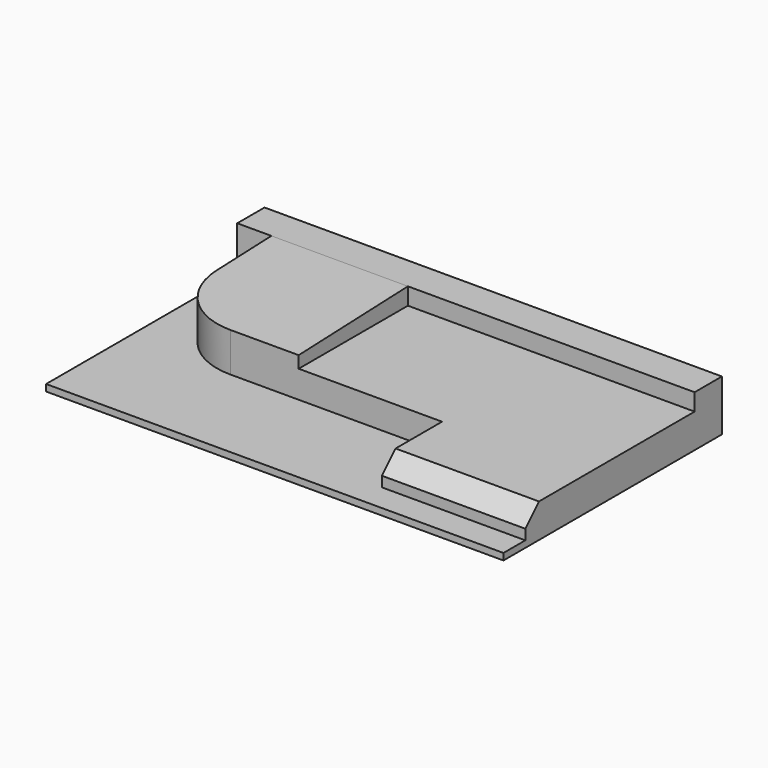
from build123d import *

# Parameters (mm, degrees)
F1_DEPTH = 21
F3_DEPTH = 42
F5_DEPTH = 50
F7_DEPTH = 50
F8_W     = 40
F8_H     = 8
F9_DEPTH = 40
F10_R    = 20
F11_SIZE = 5


with BuildPart() as f1:
    # F0 (on Right) → F1 (new body, symmetric)
    with BuildSketch(Plane.YZ):
        Polygon((40, 0), (0, 0), (-32, 0), (-40, 0), (-40, -1.9478090107), (40, -1.9478090107), align=None)
        Polygon((-32, 0), (0, 0), (40, 0), (40, 13), (30, 13), (30, 8), (-32, 8), align=None)
    extrude(amount=F1_DEPTH, both=True)

    # F2 (on face) → F3 (join)
    with BuildSketch(Plane(origin=(-21, 0, 0), x_dir=(0, -1, 0), z_dir=(-1, 0, 0))):
        Polygon((-30, 13), (-40, 13), (-40, -1.9478090107), (40, -1.9478090107), (40, 0), (32, 0), (10, 0), (10, 8), (-30, 8), align=None)
    extrude(amount=F3_DEPTH)

    # F4 (on face) → F5 (join)
    with BuildSketch(Plane(origin=(-63, 0, 0), x_dir=(0, -1, 0), z_dir=(-1, 0, 0))):
        Polygon((-40, 0), (-40, -1.9478090107), (40, -1.9478090107), (40, 0), (10, 0), align=None)
    extrude(amount=F5_DEPTH)

    # F6 (on face) → F7 (join)
    with BuildSketch(Plane(origin=(-63, 0, 0), x_dir=(0, -1, 0), z_dir=(-1, 0, 0))):
        Polygon((-30, 13), (-40, 13), (-40, 0), (-30, 0), (-30, 8), align=None)
    extrude(amount=F7_DEPTH)

    # F8 (on face) → F9 (join)
    with BuildSketch(Plane(origin=(-63, 0, 0), x_dir=(0, -1, 0), z_dir=(-1, 0, 0))):
        Polygon((-30, 13), (-30, 8), (10, 8), (10, 11.5), align=None)
        with Locations((-10, 4)):
            Rectangle(F8_W, F8_H)
    extrude(amount=F9_DEPTH)

    # F10
    f10_edges = [f1.edges().sort_by_distance(p)[0] for p in [
        (-103, -10, 5.75),
    ]]
    fillet(f10_edges, radius=F10_R)

    # F11
    f11_edges = [f1.edges().sort_by_distance(p)[0] for p in [
        (0, -32, 8),
    ]]
    chamfer(f11_edges, length=F11_SIZE)


solid = f1.part
